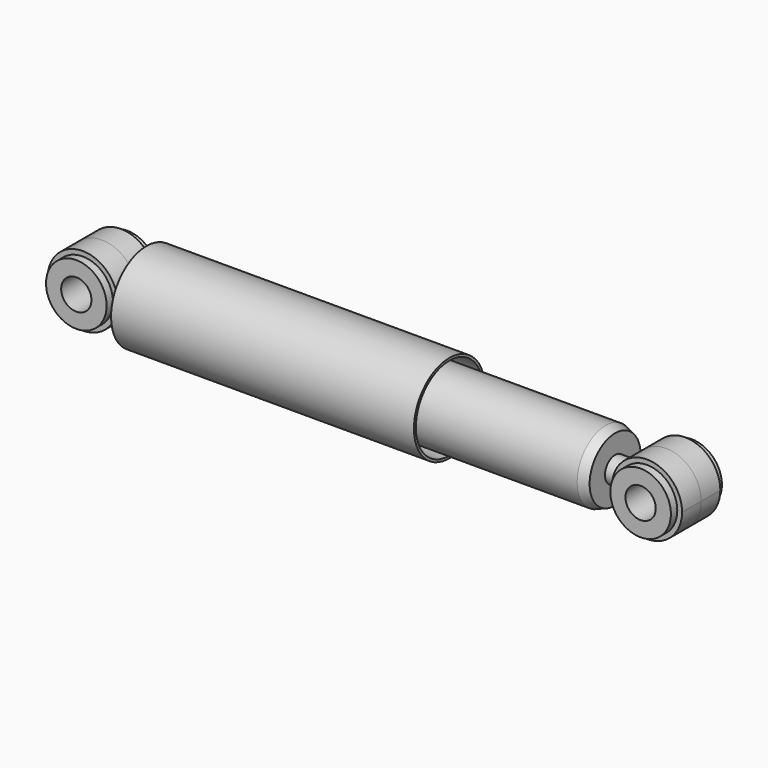
from build123d import *

# Parameters (mm, degrees)
F0_W     = 188.5
F0_H     = 4
F0_W_2   = 12
F0_H_2   = 2
F0_W_3   = 11
F0_H_3   = 8
F0_W_4   = 96
F2_R     = 22
F2_R_2   = 19
F3_DEPTH = 15
F4_R     = 19
F4_R_2   = 9.5
F5_DEPTH = 20


with BuildPart() as f1:
    # F0 (on Front) → F1 (revolve)
    with BuildSketch(Plane.XZ):
        Polygon((28, 6.5574385243), (28, 0), (29.5, 0), (29.5, 4), (29.5, 26.25), (218, 26.25), (218, 27.75), (28, 27.75), align=None)
        with BuildLine():
            ThreePointArc((21, 6.5574385243), (21.7485631709, 3.3166247904), (22, 0))
            Line((22, 0), (28, 0))
            Line((28, 0), (28, 6.5574385243))
            Line((28, 6.5574385243), (21, 6.5574385243))
        make_face()
        with Locations((123.75, 2)):
            Rectangle(F0_W, F0_H)
        Polygon((314, 4), (314, 0), (316, 0), (316, 22.25), (218, 22.25), (218, 20.25), (314, 20.25), align=None)
        with Locations((212, 21.25)):
            Rectangle(F0_W_2, F0_H_2)
        Polygon((316, 22.25), (316, 0), (322, 0), (322, 8), (322, 20), align=None)
        with Locations((327.5, 4)):
            Rectangle(F0_W_3, F0_H_3)
        with Locations((266, 2)):
            Rectangle(F0_W_4, F0_H)
    revolve(axis=Axis((171.75, 0, 0), (-1, 0, 0)))

    # F2 (on Front) → F3 (join, symmetric)
    with BuildSketch(Plane.XZ):
        Circle(F2_R)
        Circle(F2_R_2, mode=Mode.SUBTRACT)
        with BuildLine():
            ThreePointArc((376, 0), (357.3166247904, 21.7485631709), (333, 6.5574385243))
            Line((333, 6.5574385243), (333, -6.5574385243))
            ThreePointArc((333, -6.5574385243), (357.3166247904, -21.7485631709), (376, 0))
        make_face()
        with Locations((354, 0)):
            Circle(F2_R_2, mode=Mode.SUBTRACT)
        with BuildLine():
            Line((333, -6.5574385243), (333, 6.5574385243))
            ThreePointArc((333, 6.5574385243), (332, 0), (333, -6.5574385243))
        make_face()
    extrude(amount=F3_DEPTH, both=True)

    # F4 (on Front) → F5 (join, symmetric)
    with BuildSketch(Plane.XZ):
        Circle(F4_R)
        Circle(F4_R_2, mode=Mode.SUBTRACT)
        with Locations((354, 0)):
            Circle(F4_R)
        with Locations((354, 0)):
            Circle(F4_R_2, mode=Mode.SUBTRACT)
    extrude(amount=F5_DEPTH, both=True)


solid = f1.part
